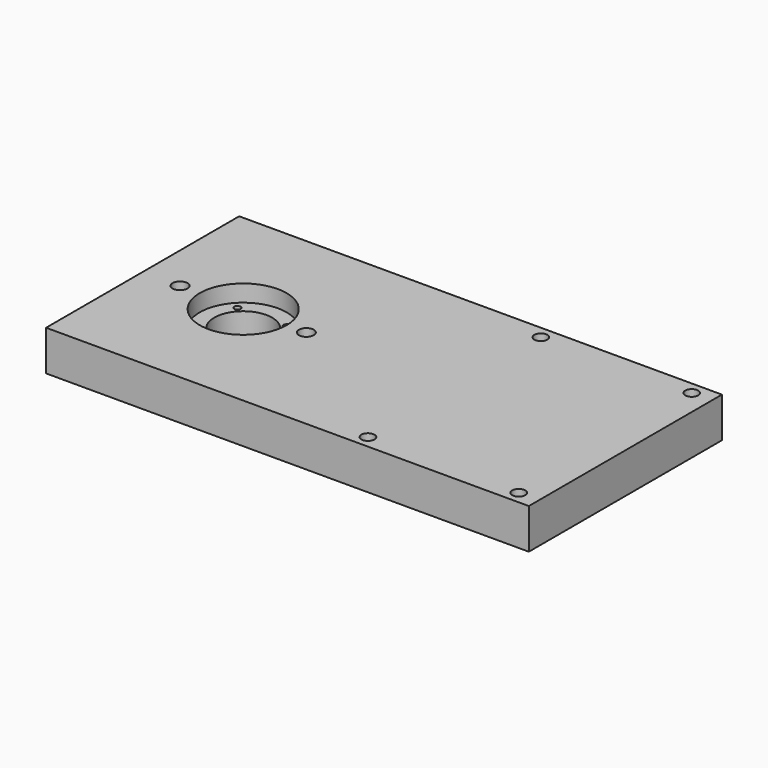
from build123d import *

# Parameters (mm, degrees)
F0_W      = 304.8
F0_H      = 152.4
F1_DEPTH  = 25.4
F2_R      = 18.288
F3_DEPTH  = 25.401
F4_R      = 27.432
F5_DEPTH  = 10.668
F7_D      = 3.9878
F8_R      = 4.699
F9_DEPTH  = 25.401
F10_R     = 6.35
F11_DEPTH = 6.35
F12_R     = 4.1275
F13_DEPTH = 25.401


with BuildPart() as f1:
    # F0 (on Top) → F1 (new body)
    with BuildSketch(Plane.XY):
        Rectangle(F0_W, F0_H)
    extrude(amount=-F1_DEPTH)

    # F2 (on face) → F3 (cut, through all)
    with BuildSketch(Plane.XY):
        with Locations((-88.9, 0)):
            Circle(F2_R)
    extrude(amount=-F3_DEPTH, mode=Mode.SUBTRACT)

    # F4 (on face) → F5 (cut)
    with BuildSketch(Plane.XY):
        with Locations((-88.9, 0)):
            Circle(F4_R)
    extrude(amount=-F5_DEPTH, mode=Mode.SUBTRACT)

    # F7 (through all)
    with Locations(Plane.XY.offset(-10.668)):
        with Locations((-104.796082, 15.356758), (-104.796082, -15.768846), (-73.706482, -15.768846), (-73.706482, 15.356758)):
            Hole(F7_D / 2)

    # F8 (on face) → F9 (cut, through all)
    with BuildSketch(Plane.XY):
        with Locations((-128.778, 0)):
            Circle(F8_R)
        with Locations((-49.022, 0)):
            Circle(F8_R)
    extrude(amount=-F9_DEPTH, mode=Mode.SUBTRACT)

    # F10 (on face) → F11 (cut)
    with BuildSketch(Plane(origin=(0, 0, -25.4), x_dir=(1, 0, 0), z_dir=(0, 0, -1))):
        with Locations((-128.778, 0)):
            Circle(F10_R)
        with Locations((-49.022, 0)):
            Circle(F10_R)
    extrude(amount=-F11_DEPTH, mode=Mode.SUBTRACT)

    # F12 (on face) → F13 (cut, through all)
    with BuildSketch(Plane.XY):
        with Locations((44.45, 68.2498)):
            Circle(F12_R)
        with Locations((139.7, 68.2498)):
            Circle(F12_R)
        with Locations((44.45, -68.2498)):
            Circle(F12_R)
        with Locations((139.7, -68.2498)):
            Circle(F12_R)
    extrude(amount=-F13_DEPTH, mode=Mode.SUBTRACT)


solid = f1.part
